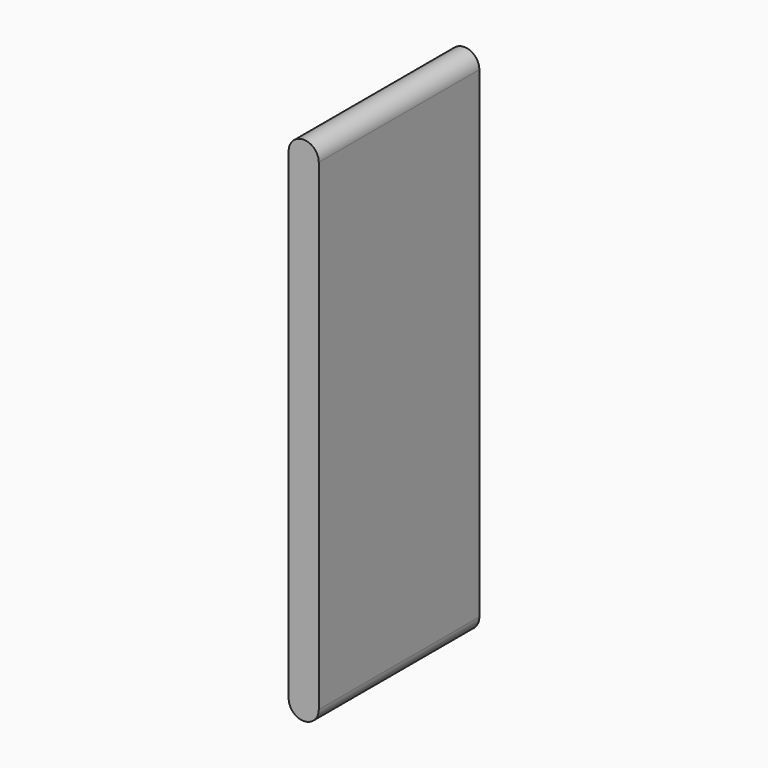
from build123d import *

# Parameters (mm, degrees)
F0_W     = 3
F0_H     = 48
F1_DEPTH = 20


with BuildPart() as f1:
    # F0 (on Front) → F1 (new body)
    with BuildSketch(Plane.XZ):
        with Locations((-37.603965, 12.456793)):
            Rectangle(F0_W, F0_H)
        with BuildLine():
            Line((-39.103965, 36.456793), (-36.103965, 36.456793))
            ThreePointArc((-36.103965, 36.456793), (-37.603965, 37.956793), (-39.103965, 36.456793))
        make_face()
        with BuildLine():
            ThreePointArc((-39.103965, -11.543207), (-37.603965, -13.043207), (-36.103965, -11.543207))
            Line((-36.103965, -11.543207), (-39.103965, -11.543207))
        make_face()
    extrude(amount=F1_DEPTH)


solid = f1.part
